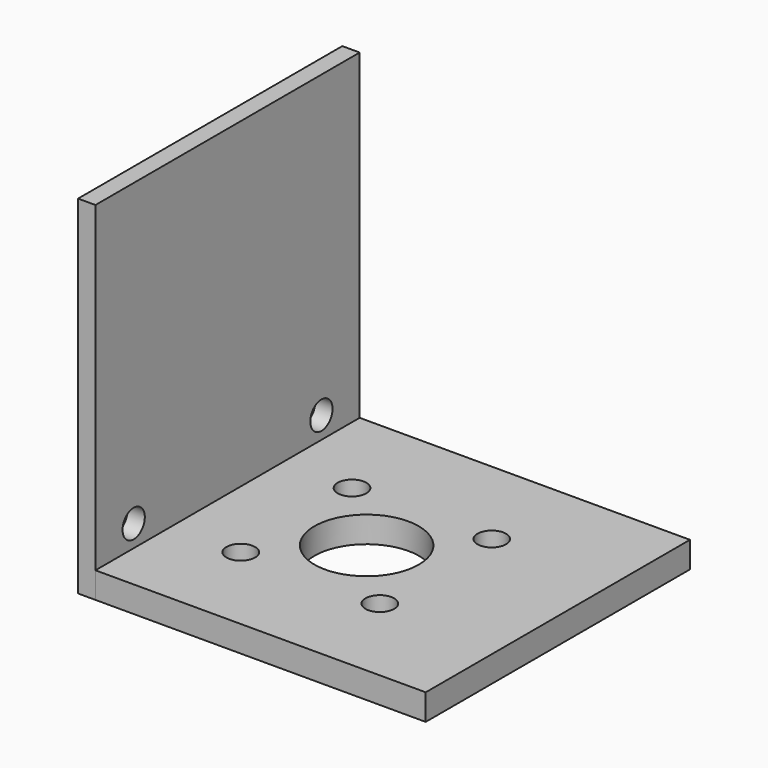
from build123d import *

# Parameters (mm, degrees)
SKETCH_W     = 40
SKETCH_H     = 38
SKETCH_R     = 6
SKETCH_R_2   = 1.65
PAD_DEPTH    = 3
SKETCH001_W  = 2
SKETCH001_H  = 38
PAD001_DEPTH = 40
SKETCH002_R  = 1.6
POCKET_DEPTH = 4


with BuildPart() as pad:
    # Sketch → Pad (new body)
    with BuildSketch(Plane.XY):
        with Locations((20, 19)):
            Rectangle(SKETCH_W, SKETCH_H)
        with Locations((18, 19)):
            Circle(SKETCH_R, mode=Mode.SUBTRACT)
        with Locations((26, 27)):
            Circle(SKETCH_R_2, mode=Mode.SUBTRACT)
        with Locations((10, 26.899673)):
            Circle(SKETCH_R_2, mode=Mode.SUBTRACT)
        with Locations((10, 10.899673)):
            Circle(SKETCH_R_2, mode=Mode.SUBTRACT)
        with Locations((26, 10.900001)):
            Circle(SKETCH_R_2, mode=Mode.SUBTRACT)
    extrude(amount=PAD_DEPTH)


with BuildPart() as pocket:
    # Sketch001 → Pad001 (new body)
    with BuildSketch(Plane.XY):
        with Locations((1, 19)):
            Rectangle(SKETCH001_W, SKETCH001_H)
    extrude(amount=PAD001_DEPTH)

    # Sketch002 → Pocket (cut)
    with BuildSketch(Plane(origin=(0, 0, 0), x_dir=(0, -1, 0), z_dir=(-1, 0, 0))):
        with Locations((-5.5, 5.5)):
            Circle(SKETCH002_R)
        with Locations((-32.5, 5.5)):
            Circle(SKETCH002_R)
    extrude(amount=-POCKET_DEPTH, mode=Mode.SUBTRACT)


solid = Compound([pad.part, pocket.part])
